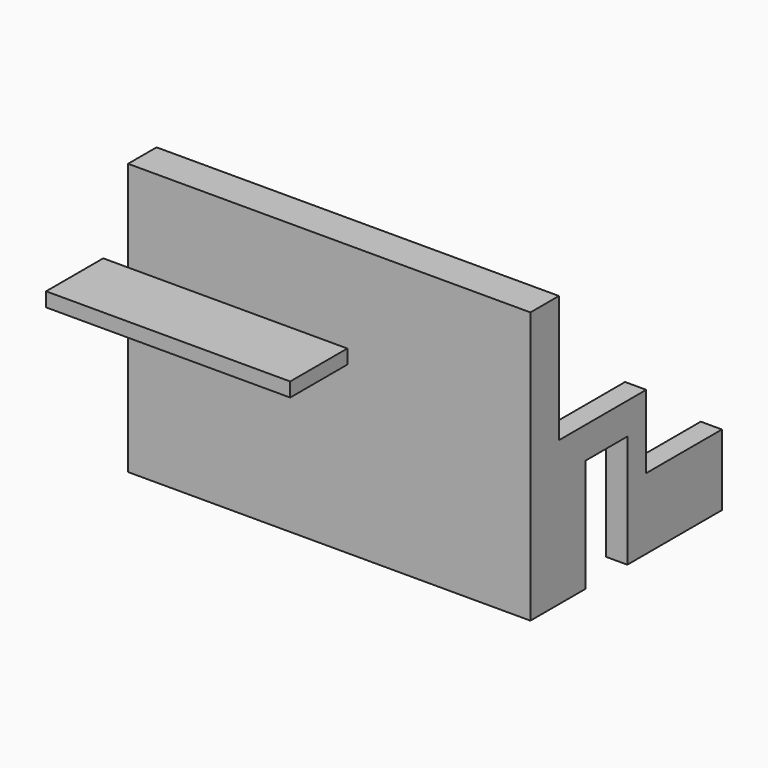
from build123d import *

# Parameters (mm, degrees)
F0_W      = 7268.37002
F0_H      = 4074.32002
F0_W_2    = 6861.97002
F0_H_2    = 3667.92002
F1_DEPTH  = 2599.53252
F2_W      = 431.8
F2_H      = 133.35
F3_DEPTH  = 203.2
F4_W      = 304.8
F4_H      = 254
F5_DEPTH  = 203.2
F6_DEPTH  = 381
F7_DEPTH  = 254
F8_DEPTH  = 106.68
F9_DEPTH  = 38.1
F10_DEPTH = 17.14627
F11_W     = 914.4
F11_H     = 2082.8
F12_DEPTH = 203.2
F13_DEPTH = 177.8
F14_DEPTH = 203.2
F15_DEPTH = 127
F16_DEPTH = 203.2
F17_DEPTH = 203.2
F18_DEPTH = 6861.97102
F19_DEPTH = 381
F20_W     = 381
F20_H     = 2599.53252
F21_DEPTH = 600.075
F22_W     = 381
F22_H     = 567.53252
F23_DEPTH = 812.8
F24_W     = 381
F24_H     = 2032
F24_H_2   = 567.53252
F25_DEPTH = 2254.885
F26_W     = 381
F26_H     = 1426.0795144653
F27_DEPTH = 1320.8
F28_DEPTH = 403.86
F29_DEPTH = 127
F30_DEPTH = 127
F31_DEPTH = 2286
F33_DEPTH = 381
F34_W     = 1285.8766731262
F34_H     = 255.3832530975
F35_DEPTH = 4394.2
F36_DEPTH = 260.35
F37_DEPTH = 260.35
F38_DEPTH = 260.35
F39_DEPTH = 260.35


with BuildPart() as f1:
    # F0 (on Top) → F1 (new body)
    with BuildSketch(Plane.XY):
        with Locations((3634.18501, 2037.16001)):
            Rectangle(F0_W, F0_H)
        with Locations((3634.18501, 2037.16001)):
            Rectangle(F0_W_2, F0_H_2, mode=Mode.SUBTRACT)
    extrude(amount=F1_DEPTH)

    # F2 (on Front) → F3 (cut)
    with BuildSketch(Plane.XZ):
        with Locations((1479.55, 2409.03125)):
            Rectangle(F2_W, F2_H)
    extrude(amount=-F3_DEPTH, mode=Mode.SUBTRACT)

    # F4 (on face) → F5 (cut)
    with BuildSketch(Plane(origin=(0, 203.2, 0), x_dir=(-1, 0, 0), z_dir=(0, 1, 0))):
        with Locations((-6077.74502, 2362.2)):
            Rectangle(F4_W, F4_H)
    extrude(amount=-F5_DEPTH, mode=Mode.SUBTRACT)

    # F6 (cut): a face of the model
    f6_faces = [f1.faces().sort_by_distance(p)[0] for p in [
        (1263.65, 101.6, 2409.03125),
    ]]
    extrude(f6_faces, amount=-F6_DEPTH, mode=Mode.SUBTRACT)

    # F7 (add, through all): a face of the model
    f7_faces = [f1.faces().sort_by_distance(p)[0] for p in [
        (6077.74502, 101.6, 2235.2),
    ]]
    extrude(f7_faces, amount=F7_DEPTH)

    # F8 (cut): a face of the model
    f8_faces = [f1.faces().sort_by_distance(p)[0] for p in [
        (1289.05, 101.6, 2475.70625),
    ]]
    extrude(f8_faces, amount=-F8_DEPTH, mode=Mode.SUBTRACT)

    # F9 (cut): a face of the model
    f9_faces = [f1.faces().sort_by_distance(p)[0] for p in [
        (882.65, 101.6, 2462.37125),
    ]]
    extrude(f9_faces, amount=-F9_DEPTH, mode=Mode.SUBTRACT)

    # F10 (cut, through all): a face of the model
    f10_faces = [f1.faces().sort_by_distance(p)[0] for p in [
        (1270, 101.6, 2582.38625),
    ]]
    extrude(f10_faces, amount=-F10_DEPTH, mode=Mode.SUBTRACT)

    # F11 (on face) → F12 (cut, through all)
    with BuildSketch(Plane(origin=(7065.17002, 0, 0), x_dir=(0, -1, 0), z_dir=(-1, 0, 0))):
        with Locations((-1260.475, 1041.4)):
            Rectangle(F11_W, F11_H)
    extrude(amount=-F12_DEPTH, mode=Mode.SUBTRACT)

    # F13 (add): a face of the model
    f13_faces = [f1.faces().sort_by_distance(p)[0] for p in [
        (3661.8874403743, 0, 1286.0429344876),
    ]]
    extrude(f13_faces, amount=F13_DEPTH)

    # F14 (add): a face of the model
    f14_faces = [f1.faces().sort_by_distance(p)[0] for p in [
        (844.55, 12.7, 2470.944385),
    ]]
    extrude(f14_faces, amount=F14_DEPTH)

    # F15 (cut): a face of the model
    f15_faces = [f1.faces().sort_by_distance(p)[0] for p in [
        (1695.45, 12.7, 2470.944385),
    ]]
    extrude(f15_faces, amount=-F15_DEPTH, mode=Mode.SUBTRACT)

    # F16 (cut, through all): a face of the model
    f16_faces = [f1.faces().sort_by_distance(p)[0] for p in [
        (7268.37002, 2091.4333965997, 1353.5493054131),
    ]]
    extrude(f16_faces, amount=-F16_DEPTH, mode=Mode.SUBTRACT)

    # F17 (cut, through all): a face of the model
    f17_faces = [f1.faces().sort_by_distance(p)[0] for p in [
        (0, 1948.26001, 1299.76626),
    ]]
    extrude(f17_faces, amount=-F17_DEPTH, mode=Mode.SUBTRACT)

    # F18 (cut, through all): a face of the model
    f18_faces = [f1.faces().sort_by_distance(p)[0] for p in [
        (7065.17002, 3972.72002, 1299.76626),
    ]]
    extrude(f18_faces, amount=-F18_DEPTH, mode=Mode.SUBTRACT)

    # F19 (add): a face of the model
    f19_faces = [f1.faces().sort_by_distance(p)[0] for p in [
        (7065.17002, 12.7, 1299.76626),
    ]]
    extrude(f19_faces, amount=F19_DEPTH)

    # F20 (on face) → F21 (join)
    with BuildSketch(Plane(origin=(0, 203.2, 0), x_dir=(-1, 0, 0), z_dir=(0, 1, 0))):
        with Locations((-7255.67002, 1299.76626)):
            Rectangle(F20_W, F20_H)
    extrude(amount=F21_DEPTH)

    # F22 (on face) → F23 (join)
    with BuildSketch(Plane(origin=(0, 803.275, 0), x_dir=(-1, 0, 0), z_dir=(0, 1, 0))):
        with Locations((-7255.67002, 2315.76626)):
            Rectangle(F22_W, F22_H)
    extrude(amount=F23_DEPTH)

    # F24 (on face) → F25 (join)
    with BuildSketch(Plane(origin=(0, 1616.075, 0), x_dir=(-1, 0, 0), z_dir=(0, 1, 0))):
        with Locations((-7255.67002, 1016)):
            Rectangle(F24_W, F24_H)
        with Locations((-7255.67002, 2315.76626)):
            Rectangle(F24_W, F24_H_2)
    extrude(amount=F25_DEPTH)

    # F26 (on face) → F27 (cut)
    with BuildSketch(Plane.XY.offset(2599.53252)):
        with Locations((7255.67002, 3157.9202427673)):
            Rectangle(F26_W, F26_H)
    extrude(amount=-F27_DEPTH, mode=Mode.SUBTRACT)

    # F28 (cut): a face of the model
    f28_faces = [f1.faces().sort_by_distance(p)[0] for p in [
        (7255.67002, 2444.8804855347, 1939.13252),
    ]]
    extrude(f28_faces, amount=-F28_DEPTH, mode=Mode.SUBTRACT)

    # F29 (cut): a face of the model
    f29_faces = [f1.faces().sort_by_distance(p)[0] for p in [
        (7255.67002, 1616.075, 1016),
    ]]
    extrude(f29_faces, amount=-F29_DEPTH, mode=Mode.SUBTRACT)

    # F30 (add): a face of the model
    f30_faces = [f1.faces().sort_by_distance(p)[0] for p in [
        (7255.67002, 2041.0204855347, 1939.13252),
    ]]
    extrude(f30_faces, amount=F30_DEPTH)

    # F31 (add): a face of the model
    f31_faces = [f1.faces().sort_by_distance(p)[0] for p in [
        (625.475, 12.7, 2599.53252),
    ]]
    extrude(f31_faces, amount=F31_DEPTH)

    # F32 (on face) → F33 (join, through all)
    with BuildSketch(Plane.XZ.offset(177.8)):
        Polygon((1047.75, 4885.53252), (1047.75, 2599.53252), (1822.45, 2599.53252), (7446.17002, 2599.53252), (7446.17002, 4885.53252), align=None)
    extrude(amount=-F33_DEPTH)

    # F36 (add): a face of the model
    f36_faces = [f1.faces().sort_by_distance(p)[0] for p in [
        (3739.2356692954, 203.2, 2475.7067959976),
    ]]
    extrude(f36_faces, amount=F36_DEPTH)

    # F37 (add): faces of the model
    f37_faces = [f1.faces().sort_by_distance(p)[0] for p in [
        (7255.67002, 2168.0204855347, 1939.13252),
        (7255.67002, 803.275, 1016),
    ]]
    extrude(f37_faces, amount=F37_DEPTH)

    # F38 (cut): a face of the model
    f38_faces = [f1.faces().sort_by_distance(p)[0] for p in [
        (7255.67002, 1743.075, 1016),
    ]]
    extrude(f38_faces, amount=-F38_DEPTH, mode=Mode.SUBTRACT)

    # F39 (add): a face of the model
    f39_faces = [f1.faces().sort_by_distance(p)[0] for p in [
        (7255.67002, 3870.96, 639.36626),
    ]]
    extrude(f39_faces, amount=F39_DEPTH)


with BuildPart() as f35:
    # F34 (on face) → F35 (new body)
    with BuildSketch(Plane(origin=(203.2, 0, 0), x_dir=(0, -1, 0), z_dir=(-1, 0, 0))):
        with Locations((1379.5383365631, 3486.8167638779)):
            Rectangle(F34_W, F34_H)
    extrude(amount=-F35_DEPTH)


solid = Compound([f1.part, f35.part])
